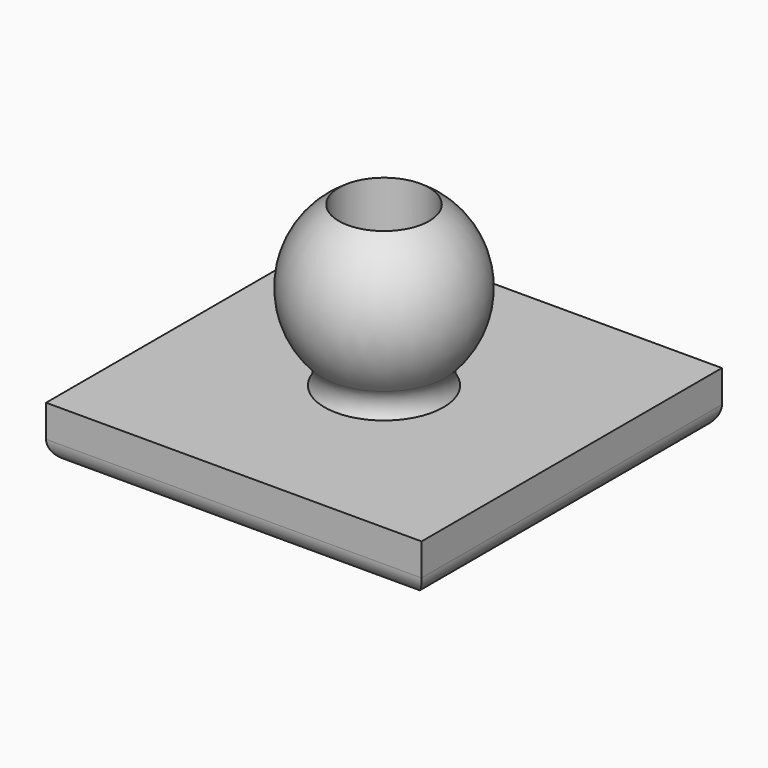
from build123d import *

# Parameters (mm, degrees)
F2_R     = 4.208015
F3_DEPTH = 25
F5_DEPTH = 12.5
F6_W     = 60.247029
F6_H     = 20.936121
F7_DEPTH = 12.5
F8_W     = 35
F8_H     = 35
F9_DEPTH = 5
F10_R    = 2


with BuildPart() as f1:
    # F0 (on Front) → F1 (revolve)
    with BuildSketch(Plane.XZ):
        with BuildLine():
            Line((0, 20.085304), (0, 4.085304))
            ThreePointArc((0, 4.085304), (0.501949, 4.101066), (1.001921, 4.148292))
            ThreePointArc((1.001921, 4.148292), (6.709386, 0.667853), (7.875, -5.914696))
            Line((7.875, -5.914696), (10.125, -5.914696))
            Line((10.125, -5.914696), (10.125, -2.796421))
            Line((10.125, -2.796421), (5.543535, 4.036662))
            ThreePointArc((5.543535, 4.036662), (5.212415, 5.325897), (5.763763, 6.537418))
            ThreePointArc((5.763763, 6.537418), (7.36149, 15.21715), (0, 20.085304))
        make_face()
    revolve(axis=Axis((0, 0, -0.914696), (0, 0, -1)))

    # F2 (on Top) → F3 (cut, symmetric)
    with BuildSketch(Plane.XY):
        Circle(F2_R)
    extrude(amount=F3_DEPTH, both=True, mode=Mode.SUBTRACT)

    # F4 (on Right) → F5 (cut, symmetric)
    with BuildSketch(Plane.YZ):
        with BuildLine():
            Line((-1, -5.914696), (1, -5.914696))
            Line((1, -5.914696), (1, -0.914696))
            ThreePointArc((1, -0.914696), (0, 0.085304), (-1, -0.914696))
            Line((-1, -0.914696), (-1, -5.914696))
        make_face()
    extrude(amount=F5_DEPTH, both=True, mode=Mode.SUBTRACT)

    # F6 (on Front) → F7 (cut, symmetric)
    with BuildSketch(Plane.XZ):
        with Locations((-4.474848, -6.431399)):
            Rectangle(F6_W, F6_H)
    extrude(amount=F7_DEPTH, both=True, mode=Mode.SUBTRACT)

    # F8 (on face) → F9 (join)
    with BuildSketch(Plane(origin=(0, 0, 4.036662), x_dir=(1, 0, 0), z_dir=(0, 0, -1))):
        Rectangle(F8_W, F8_H)
    extrude(amount=F9_DEPTH)

    # F10
    f10_edges = [f1.edges().sort_by_distance(p)[0] for p in [
        (0, -17.5, -0.963338),
        (-17.5, 0, -0.963338),
        (0, 17.5, -0.963338),
        (17.5, 0, -0.963338),
    ]]
    fillet(f10_edges, radius=F10_R)


solid = f1.part
